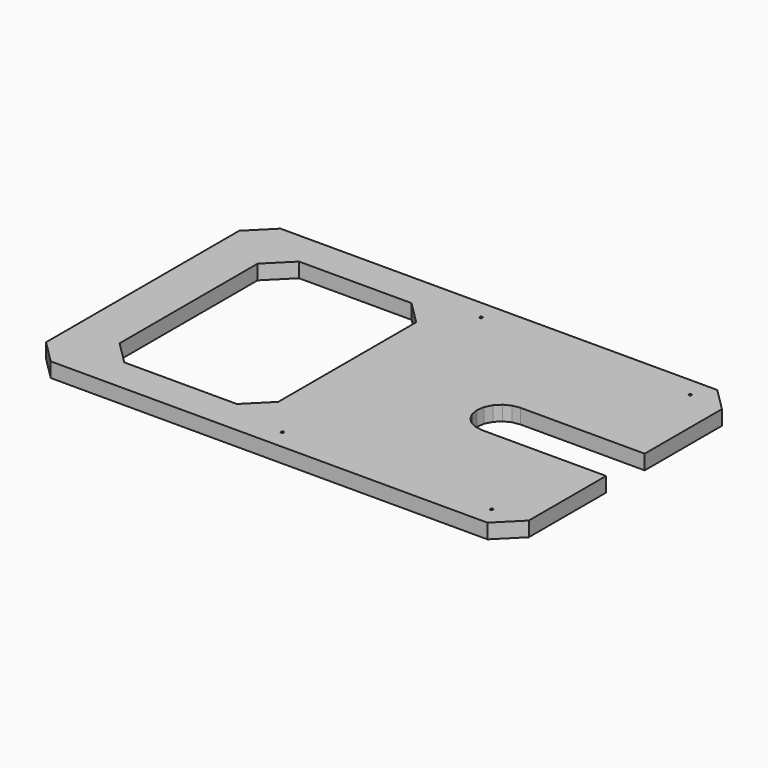
from build123d import *

# Parameters (mm, degrees)
F0_W     = 210
F0_H     = 125
F1_DEPTH = 6.4
F3_DEPTH = 25
F5_DEPTH = 6.401
F6_SIZE  = 10
F7_W     = 69
F7_H     = 95
F8_DEPTH = 6.401
F9_SIZE  = 10


with BuildPart() as f1:
    # F0 (on Top) → F1 (new body)
    with BuildSketch(Plane.XY):
        Rectangle(F0_W, F0_H)
    extrude(amount=F1_DEPTH)

    # F2 (on face) → F3 (cut)
    with BuildSketch(Plane.XY.offset(6.4)):
        Polygon((105, 10.5), (51, 10.5), (47.755322, 9.986093), (44.828255, 8.494678), (42.505322, 6.171745), (41.013907, 3.244678), (40.5, 0), (41.013907, -3.244678), (42.505322, -6.171745), (44.828255, -8.494678), (47.755322, -9.986093), (51, -10.5), (105, -10.5), align=None)
    extrude(amount=-F3_DEPTH, mode=Mode.SUBTRACT)

    # F4 (on Top) → F5 (cut, through all)
    with BuildSketch(Plane.XY):
        Polygon((89.661921, 53.473939), (90, 53.37467), (90.338079, 53.473939), (90.56882, 53.740228), (90.618965, 54.088994), (90.472593, 54.409504), (90.176176, 54.6), (89.823824, 54.6), (89.527407, 54.409504), (89.381035, 54.088994), (89.43118, 53.740228), align=None)
        Polygon((90.472593, -54.409504), (90.618965, -54.088994), (90.56882, -53.740228), (90.338079, -53.473939), (90, -53.37467), (89.661921, -53.473939), (89.43118, -53.740228), (89.381035, -54.088994), (89.527407, -54.409504), (89.823824, -54.6), (90.176176, -54.6), align=None)
        Polygon((-0.62918, 53.48961), (-0.4, 53.805048), (-0.4, 54.194952), (-0.62918, 54.51039), (-1, 54.630877), (-1.37082, 54.51039), (-1.6, 54.194952), (-1.6, 53.805048), (-1.37082, 53.48961), (-1, 53.369123), align=None)
        Polygon((-1.37082, -53.48961), (-1.6, -53.805048), (-1.6, -54.194952), (-1.37082, -54.51039), (-1, -54.630877), (-0.62918, -54.51039), (-0.4, -54.194952), (-0.4, -53.805048), (-0.62918, -53.48961), (-1, -53.369123), align=None)
    extrude(amount=F5_DEPTH, mode=Mode.SUBTRACT)

    # F6
    f6_edges = [f1.edges().sort_by_distance(p)[0] for p in [
        (-105, 62.5, 3.2),
        (105, 62.5, 3.2),
        (105, -62.5, 3.2),
        (-105, -62.5, 3.2),
    ]]
    chamfer(f6_edges, length=F6_SIZE)

    # F7 (on face) → F8 (cut, through all)
    with BuildSketch(Plane(origin=(0, 0, 0), x_dir=(1, 0, 0), z_dir=(0, 0, -1))):
        with Locations((-50.5, 0)):
            Rectangle(F7_W, F7_H)
    extrude(amount=-F8_DEPTH, mode=Mode.SUBTRACT)

    # F9
    f9_edges = [f1.edges().sort_by_distance(p)[0] for p in [
        (-85, 47.5, 3.2),
        (-16, 47.5, 3.2),
        (-16, -47.5, 3.2),
        (-85, -47.5, 3.2),
    ]]
    chamfer(f9_edges, length=F9_SIZE)


solid = f1.part
